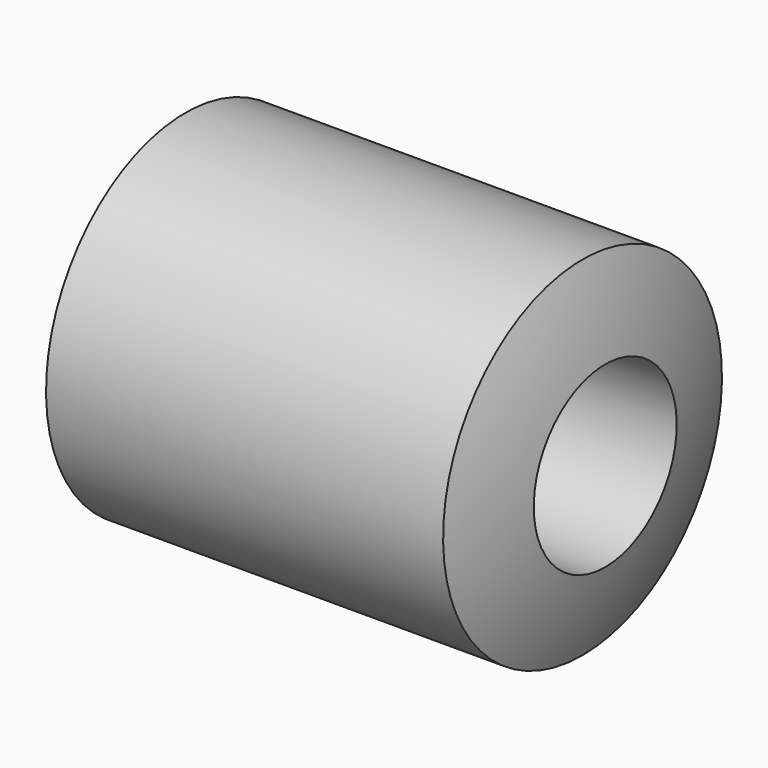
from build123d import *


with BuildPart() as f1:
    # F0 (on Front) → F1 (revolve)
    with BuildSketch(Plane.XZ):
        with BuildLine():
            Line((-58.211724, -26.935), (1.788276, -26.935))
            ThreePointArc((1.788276, -26.935), (3.780056, -20.591273), (5.22, -14.1))
            Line((5.22, -14.1), (-28.207292, -14.1))
            Line((-28.207292, -14.1), (-61.608834, -14.1))
            ThreePointArc((-61.608834, -14.1), (-60.186011, -20.59048), (-58.211724, -26.935))
        make_face()
    revolve(axis=Axis((5.927898, 0, -0.6), (-1, 0, 0)))


solid = f1.part
